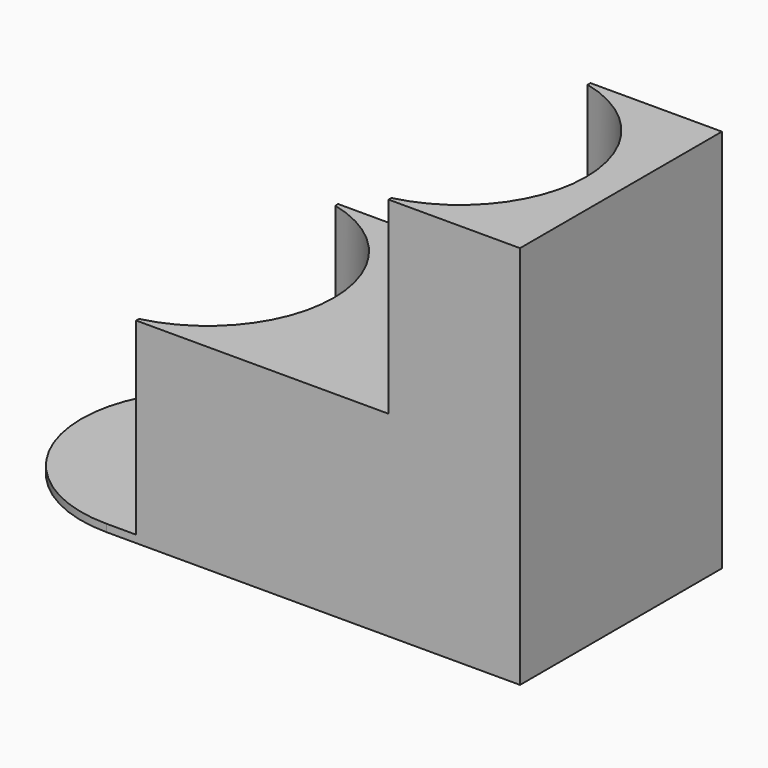
from build123d import *

# Parameters (mm, degrees)
F1_DEPTH = 5
F2_DEPTH = 5
F3_DEPTH = 132
F4_DEPTH = 132
F5_DEPTH = 259


with BuildPart() as f1:
    # F0 (on Top) → F1 (new body)
    with BuildSketch(Plane.XY):
        with BuildLine():
            ThreePointArc((20, -82.6135582093), (66.8019460794, -52.5594901041), (85, 0))
            ThreePointArc((85, 0), (66.8019460794, 52.5594901041), (20, 82.6135582093))
            ThreePointArc((20, 82.6135582093), (10.0709372009, 84.4012809375), (0, 85))
            ThreePointArc((0, 85), (-85, 0), (0, -85))
            ThreePointArc((0, -85), (10.0709372009, -84.4012809375), (20, -82.6135582093))
        make_face()
    extrude(amount=F1_DEPTH)

    # F0 (on Top) → F2 (join)
    with BuildSketch(Plane.XY):
        with BuildLine():
            ThreePointArc((0, 85), (10.0709372009, 84.4012809375), (20, 82.6135582093))
            Line((20, 82.6135582093), (20, 85))
            Line((20, 85), (0, 85))
        make_face()
        with BuildLine():
            Line((20, -85), (20, -82.6135582093))
            ThreePointArc((20, -82.6135582093), (10.0709372009, -84.4012809375), (0, -85))
            Line((0, -85), (20, -85))
        make_face()
    extrude(amount=F2_DEPTH)

    # F0 (on Top) → F3 (join)
    with BuildSketch(Plane.XY):
        with BuildLine():
            ThreePointArc((170, -85), (109.8959235991, -60.1040764009), (85, 0))
            ThreePointArc((85, 0), (66.8019460794, -52.5594901041), (20, -82.6135582093))
            Line((20, -82.6135582093), (20, -85))
            Line((20, -85), (170, -85))
        make_face()
        with BuildLine():
            ThreePointArc((20, 82.6135582093), (66.8019460794, 52.5594901041), (85, 0))
            ThreePointArc((85, 0), (109.8959235991, 60.1040764009), (170, 85))
            Line((170, 85), (20, 85))
            Line((20, 85), (20, 82.6135582093))
        make_face()
        with BuildLine():
            ThreePointArc((170, 85), (109.8959235991, 60.1040764009), (85, 0))
            ThreePointArc((85, 0), (109.8959235991, -60.1040764009), (170, -85))
            ThreePointArc((170, -85), (180.0709372009, -84.4012809375), (190, -82.6135582093))
            ThreePointArc((190, -82.6135582093), (236.8019460794, -52.5594901041), (255, 0))
            ThreePointArc((255, 0), (236.8019460794, 52.5594901041), (190, 82.6135582093))
            ThreePointArc((190, 82.6135582093), (180.0709372009, 84.4012809375), (170, 85))
        make_face()
    extrude(amount=F3_DEPTH)

    # F0 (on Top) → F4 (join)
    with BuildSketch(Plane.XY):
        with BuildLine():
            Line((190, 85), (170, 85))
            ThreePointArc((170, 85), (180.0709372009, 84.4012809375), (190, 82.6135582093))
            Line((190, 82.6135582093), (190, 85))
        make_face()
        with BuildLine():
            ThreePointArc((190, -82.6135582093), (180.0709372009, -84.4012809375), (170, -85))
            Line((170, -85), (190, -85))
            Line((190, -85), (190, -82.6135582093))
        make_face()
    extrude(amount=F4_DEPTH)

    # F0 (on Top) → F5 (join)
    with BuildSketch(Plane.XY):
        with BuildLine():
            Line((248.512, 85), (190, 85))
            Line((190, 85), (190, 82.6135582093))
            ThreePointArc((190, 82.6135582093), (236.8019460794, 52.5594901041), (255, 0))
            ThreePointArc((255, 0), (236.8019460794, -52.5594901041), (190, -82.6135582093))
            Line((190, -82.6135582093), (190, -85))
            Line((190, -85), (248.512, -85))
            Line((248.512, -85), (278.512, -85))
            Line((278.512, -85), (278.512, 85))
            Line((278.512, 85), (248.512, 85))
        make_face()
    extrude(amount=F5_DEPTH)


solid = f1.part
